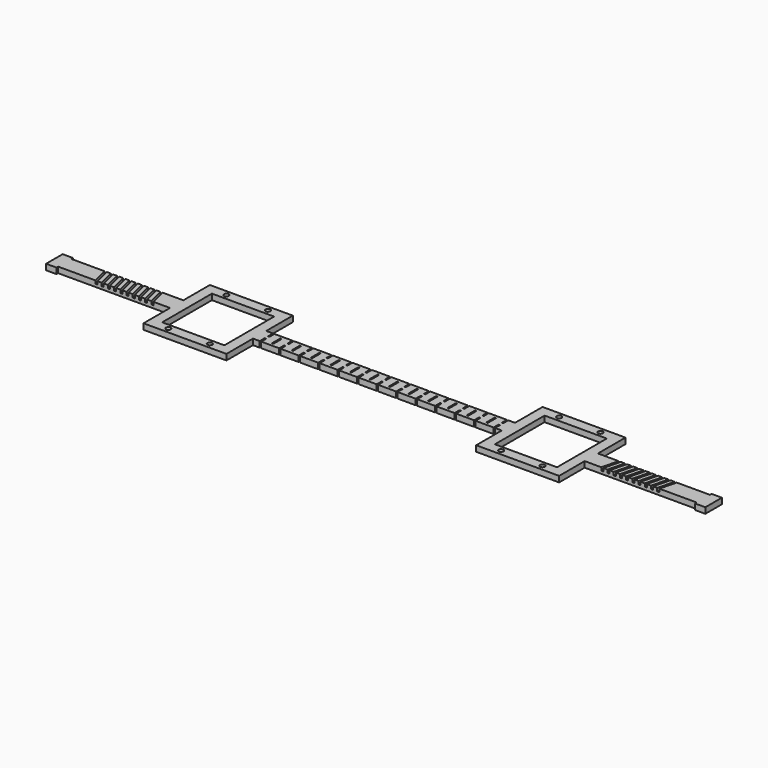
from build123d import *

# Parameters (mm, degrees)
F0_W     = 30
F0_H     = 30
F1_DEPTH = 2.8
F2_R     = 1.190625
F3_DEPTH = 2.801
F4_DEPTH = 1.5
F2_W     = 0.7
F2_H     = 3
F2_H_2   = 5
F5_DEPTH = 2.801


with BuildPart() as f1:
    # F0 (on Top) → F1 (new body)
    with BuildSketch(Plane.XY):
        Polygon((-64.6166507006, 8), (-118.6166507006, 8), (-118.6166507006, 9), (-123.6166507006, 9), (-123.6166507006, -1), (-118.6166507006, -1), (-118.6166507006, 0), (-64.6166507006, 0), (-64.6166507006, -16), (-24.6166507006, -16), (-24.6166507006, 0), (95.3833492994, 0), (95.3833492994, -15.4098179191), (135.3833492994, -15.4098179191), (135.3833492994, 0), (189.3833492994, 0), (189.3833492994, -1), (194.3833492994, -1), (194.3833492994, 9), (189.3833492994, 9), (189.3833492994, 8), (135.3833492994, 8), (135.3833492994, 24.5901820809), (95.3833492994, 24.5901820809), (95.3833492994, 8), (-24.6166507006, 8), (-24.6166507006, 24), (-64.6166507006, 24), align=None)
        with Locations((-44.6166507006, 4)):
            Rectangle(F0_W, F0_H, mode=Mode.SUBTRACT)
        with Locations((115.3833492994, 4.5901820809)):
            Rectangle(F0_W, F0_H, mode=Mode.SUBTRACT)
    extrude(amount=F1_DEPTH)

    # F2 (on face) → F3 (cut, through all)
    with BuildSketch(Plane.XY.offset(2.8)):
        with Locations((-54.6166507006, -13.5)):
            Circle(F2_R)
        with Locations((-34.6166507006, -13.5)):
            Circle(F2_R)
        with Locations((-54.6166507006, 21.5)):
            Circle(F2_R)
        with Locations((-34.6166507006, 21.5)):
            Circle(F2_R)
        with Locations((105.3833492994, 22.0901820809)):
            Circle(F2_R)
        with Locations((125.3833492994, 22.0901820809)):
            Circle(F2_R)
        with Locations((125.3833492994, -12.9098179191)):
            Circle(F2_R)
        with Locations((105.3833492994, -12.9098179191)):
            Circle(F2_R)
    extrude(amount=-F3_DEPTH, mode=Mode.SUBTRACT)

    # F2 (on face) → F4 (cut)
    with BuildSketch(Plane.XY.offset(2.8)):
        Polygon((-98.6166507006, 8), (-99.6166507006, 8), (-97.6166507006, 0), (-96.6166507006, 0), align=None)
        Polygon((-101.6166507006, 8), (-102.6166507006, 8), (-100.6166507006, 0), (-99.6166507006, 0), align=None)
        Polygon((-95.6166507006, 8), (-96.6166507006, 8), (-94.6166507006, 0), (-93.6166507006, 0), align=None)
        Polygon((-92.6166507006, 8), (-93.6166507006, 8), (-91.6166507006, 0), (-90.6166507006, 0), align=None)
        Polygon((-89.6166507006, 8), (-90.6166507006, 8), (-88.6166507006, 0), (-87.6166507006, 0), align=None)
        Polygon((-86.6166507006, 8), (-87.6166507006, 8), (-85.6166507006, 0), (-84.6166507006, 0), align=None)
        Polygon((-83.6166507006, 8), (-84.6166507006, 8), (-82.6166507006, 0), (-81.6166507006, 0), align=None)
        Polygon((-80.6166507006, 8), (-81.6166507006, 8), (-79.6166507006, 0), (-78.6166507006, 0), align=None)
        Polygon((-77.6166507006, 8), (-78.6166507006, 8), (-76.6166507006, 0), (-75.6166507006, 0), align=None)
        Polygon((-74.6166507006, 8), (-75.6166507006, 8), (-73.6166507006, 0), (-72.6166507006, 0), align=None)
        Polygon((146.3833492994, 8), (145.3833492994, 8), (143.3833492994, 0), (144.3833492994, 0), align=None)
        Polygon((149.3833492994, 8), (148.3833492994, 8), (146.3833492994, 0), (147.3833492994, 0), align=None)
        Polygon((152.3833492994, 8), (151.3833492994, 8), (149.3833492994, 0), (150.3833492994, 0), align=None)
        Polygon((155.3833492994, 8), (154.3833492994, 8), (152.3833492994, 0), (153.3833492994, 0), align=None)
        Polygon((158.3833492994, 8), (157.3833492994, 8), (155.3833492994, 0), (156.3833492994, 0), align=None)
        Polygon((161.3833492994, 8), (160.3833492994, 8), (158.3833492994, 0), (159.3833492994, 0), align=None)
        Polygon((164.3833492994, 8), (163.3833492994, 8), (161.3833492994, 0), (162.3833492994, 0), align=None)
        Polygon((167.3833492994, 8), (166.3833492994, 8), (164.3833492994, 0), (165.3833492994, 0), align=None)
        Polygon((170.3833492994, 8), (169.3833492994, 8), (167.3833492994, 0), (168.3833492994, 0), align=None)
        Polygon((173.3833492994, 8), (172.3833492994, 8), (170.3833492994, 0), (171.3833492994, 0), align=None)
    extrude(amount=-F4_DEPTH, mode=Mode.SUBTRACT)

    # F2 (on face) → F5 (cut, through all)
    with BuildSketch(Plane.XY.offset(2.8)):
        with Locations((-21.0166507006, 6.5)):
            Rectangle(F2_W, F2_H)
        with Locations((-21.0166507006, 1.5)):
            Rectangle(F2_W, F2_H)
        with Locations((-16.3166507006, 4)):
            Rectangle(F2_W, F2_H_2)
        with Locations((-11.6166507006, 6.5)):
            Rectangle(F2_W, F2_H)
        with Locations((-11.6166507006, 1.5)):
            Rectangle(F2_W, F2_H)
        with Locations((-6.9166507006, 4)):
            Rectangle(F2_W, F2_H_2)
        with Locations((-2.2166507006, 1.5)):
            Rectangle(F2_W, F2_H)
        with Locations((-2.2166507006, 6.5)):
            Rectangle(F2_W, F2_H)
        with Locations((2.4833492994, 4)):
            Rectangle(F2_W, F2_H_2)
        with Locations((7.1833492994, 6.5)):
            Rectangle(F2_W, F2_H)
        with Locations((7.1833492994, 1.5)):
            Rectangle(F2_W, F2_H)
        with Locations((11.8833492994, 4)):
            Rectangle(F2_W, F2_H_2)
        with Locations((16.5833492994, 6.5)):
            Rectangle(F2_W, F2_H)
        with Locations((16.5833492994, 1.5)):
            Rectangle(F2_W, F2_H)
        with Locations((21.2833492994, 4)):
            Rectangle(F2_W, F2_H_2)
        with Locations((25.9833492994, 6.5)):
            Rectangle(F2_W, F2_H)
        with Locations((25.9833492994, 1.5)):
            Rectangle(F2_W, F2_H)
        with Locations((30.6833492994, 4)):
            Rectangle(F2_W, F2_H_2)
        with Locations((35.3833492994, 1.5)):
            Rectangle(F2_W, F2_H)
        with Locations((35.3833492994, 6.5)):
            Rectangle(F2_W, F2_H)
        with Locations((40.0833492994, 4)):
            Rectangle(F2_W, F2_H_2)
        with Locations((44.7833492994, 1.5)):
            Rectangle(F2_W, F2_H)
        with Locations((44.7833492994, 6.5)):
            Rectangle(F2_W, F2_H)
        with Locations((49.4833492994, 4)):
            Rectangle(F2_W, F2_H_2)
        with Locations((54.1833492994, 1.5)):
            Rectangle(F2_W, F2_H)
        with Locations((54.1833492994, 6.5)):
            Rectangle(F2_W, F2_H)
        with Locations((58.8833492994, 4)):
            Rectangle(F2_W, F2_H_2)
        with Locations((63.5833492994, 6.5)):
            Rectangle(F2_W, F2_H)
        with Locations((63.5833492994, 1.5)):
            Rectangle(F2_W, F2_H)
        with Locations((68.2833492994, 4)):
            Rectangle(F2_W, F2_H_2)
        with Locations((72.9833492994, 6.5)):
            Rectangle(F2_W, F2_H)
        with Locations((72.9833492994, 1.5)):
            Rectangle(F2_W, F2_H)
        with Locations((77.6833492994, 4)):
            Rectangle(F2_W, F2_H_2)
        with Locations((82.3833492994, 1.5)):
            Rectangle(F2_W, F2_H)
        with Locations((82.3833492994, 6.5)):
            Rectangle(F2_W, F2_H)
        with Locations((91.7833492994, 6.5)):
            Rectangle(F2_W, F2_H)
        with Locations((87.0833492994, 4)):
            Rectangle(F2_W, F2_H_2)
        with Locations((91.7833492994, 1.5)):
            Rectangle(F2_W, F2_H)
    extrude(amount=-F5_DEPTH, mode=Mode.SUBTRACT)


solid = f1.part
